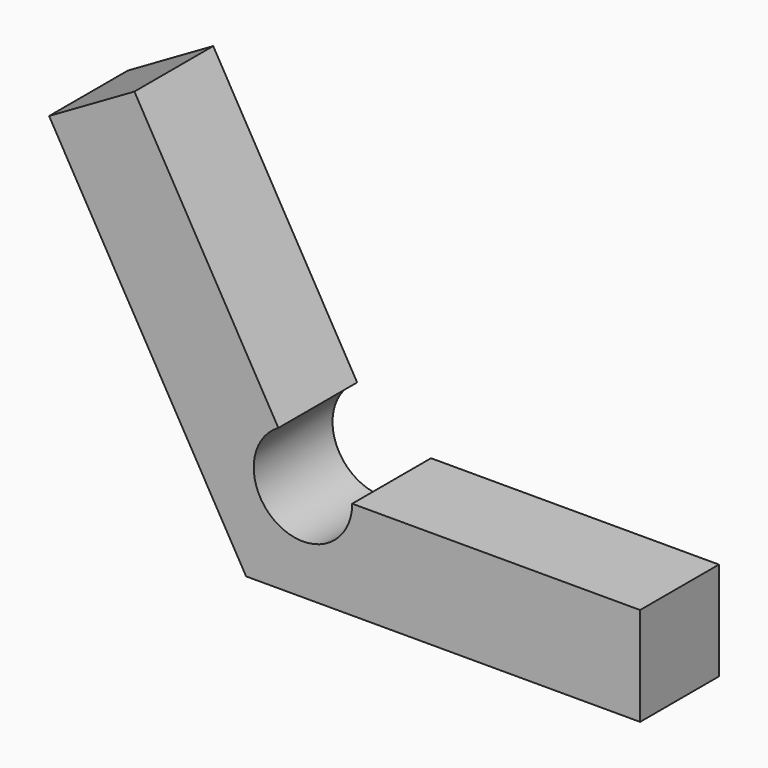
from build123d import *

# Parameters (mm, degrees)
F1_DEPTH = 12.7


with BuildPart() as f1:
    # F0 (on Front) → F1 (new body)
    with BuildSketch(Plane.XZ):
        with BuildLine():
            Line((-25.4, 43.994091), (0, 0))
            Line((0, 0), (50.8, 0))
            Line((50.8, 0), (50.8, 12.7))
            Line((50.8, 12.7), (13.682348, 12.7))
            ThreePointArc((13.682348, 12.7), (4.157348, 7.200739), (4.157348, 18.199261))
            Line((4.157348, 18.199261), (-14.401477, 50.344091))
            Line((-14.401477, 50.344091), (-25.4, 43.994091))
        make_face()
    extrude(amount=F1_DEPTH)


solid = f1.part
